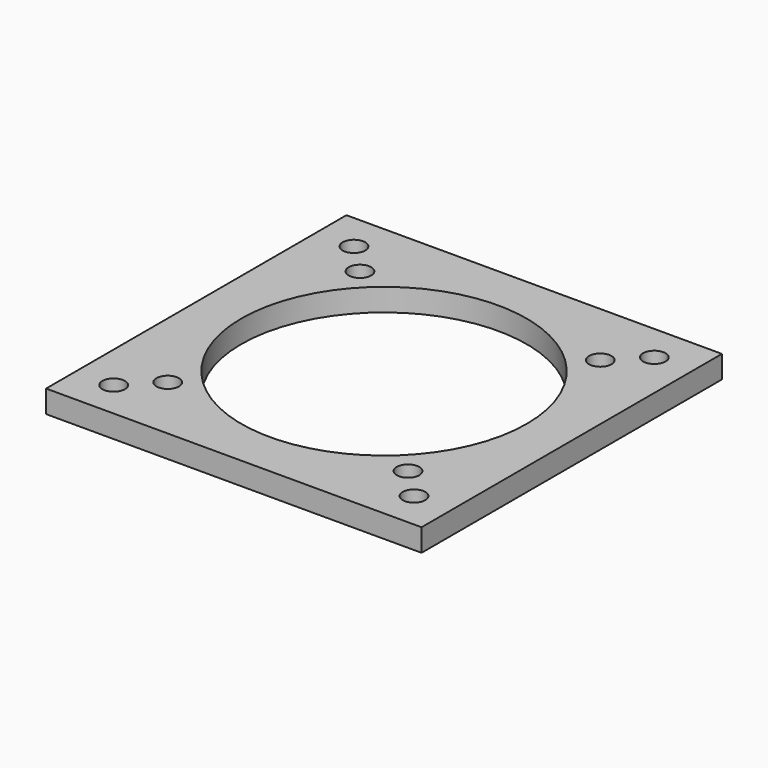
from build123d import *

# Parameters (mm, degrees)
F0_W     = 50
F0_H     = 50
F0_R     = 1.5
F0_R_2   = 19
F1_DEPTH = 3


with BuildPart() as f1:
    # F0 (on Top) → F1 (new body)
    with BuildSketch(Plane.XY):
        Rectangle(F0_W, F0_H)
        with Locations((-20, -20)):
            Circle(F0_R, mode=Mode.SUBTRACT)
        with Locations((-16, -16)):
            Circle(F0_R, mode=Mode.SUBTRACT)
        with Locations((20, -20)):
            Circle(F0_R, mode=Mode.SUBTRACT)
        with Locations((16, -16)):
            Circle(F0_R, mode=Mode.SUBTRACT)
        with Locations((-16, 16)):
            Circle(F0_R, mode=Mode.SUBTRACT)
        with Locations((-20, 20)):
            Circle(F0_R, mode=Mode.SUBTRACT)
        Circle(F0_R_2, mode=Mode.SUBTRACT)
        with Locations((16, 16)):
            Circle(F0_R, mode=Mode.SUBTRACT)
        with Locations((20, 20)):
            Circle(F0_R, mode=Mode.SUBTRACT)
    extrude(amount=F1_DEPTH)


solid = f1.part
